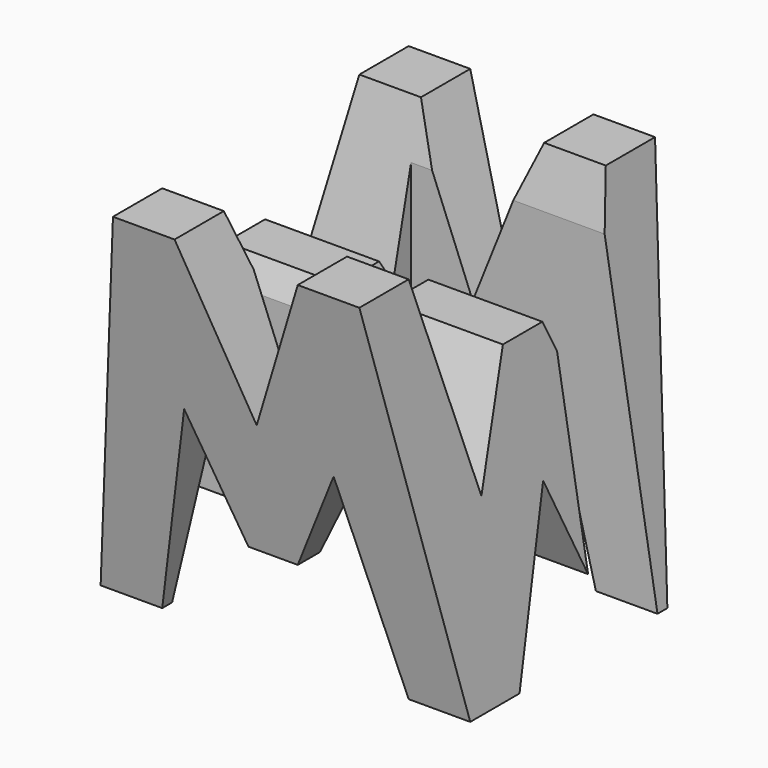
from build123d import *

# Parameters (mm, degrees)
F0_W      = 38.1
F0_H      = 38.1
F1_DEPTH  = 38.1
F6_DEPTH  = 76.2
F8_DEPTH  = 38.1
F9_W      = 25.4
F9_H      = 7.62
F10_DEPTH = 38.1


with BuildPart() as f1:
    # F0 (on Front) → F1 (new body)
    with BuildSketch(Plane.XZ):
        with Locations((-19.05, 19.05)):
            Rectangle(F0_W, F0_H)
    extrude(amount=F1_DEPTH)

    # F5 (on offset) → F6 (cut)
    with BuildSketch(Plane.YZ.offset(38.1)):
        Polygon((-11.43, 16.465984), (-6.35, 38.1), (-31.75, 38.1), (-26.67, 17.490659), (-21.59, 28.575), (-16.51, 28.575), align=None)
        Polygon((-25.4, 0), (-12.7, 0), (-19.05, 15.875), align=None)
        Polygon((-6.35, 0), (0, 0), (0, 38.1), align=None)
        Polygon((-38.1, 0), (-31.75, 0), (-38.1, 38.1), align=None)
    extrude(amount=-F6_DEPTH, mode=Mode.SUBTRACT)

    # F7 (on offset) → F8 (cut)
    with BuildSketch(Plane.XZ.offset(38.1)):
        Polygon((-38.1, 38.1), (-38.1, 0), (-31.75, 38.1), align=None)
        Polygon((-19.05, 22.225), (-12.7, 38.1), (-25.4, 38.1), align=None)
        Polygon((-6.35, 38.1), (0, 0), (0, 38.1), align=None)
        Polygon((-31.75, 0), (-6.35, 0), (-11.43, 19.911673), (-16.51, 9.525), (-21.59, 9.525), (-26.67, 21.155922), align=None)
    extrude(amount=-F8_DEPTH, mode=Mode.SUBTRACT)

    # F9 (on offset) → F10 (cut)
    with BuildSketch(Plane.XY.offset(38.1)):
        with Locations((-12.7, -11.43)):
            Rectangle(F9_W, F9_H)
        with Locations((-25.4, -26.67)):
            Rectangle(F9_W, F9_H)
    extrude(amount=-F10_DEPTH, mode=Mode.SUBTRACT)


solid = f1.part
